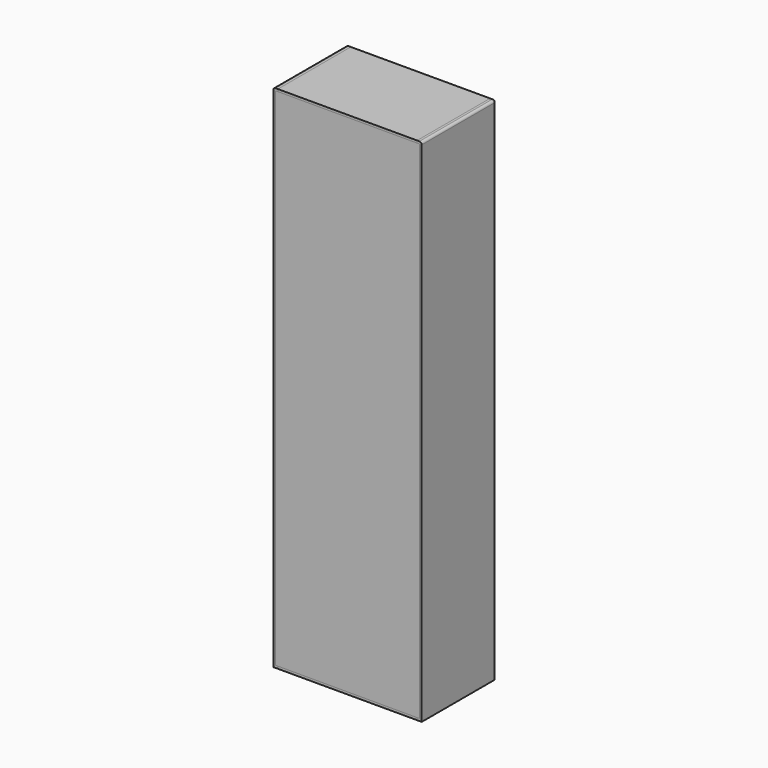
from build123d import *

# Parameters (mm, degrees)
F1_DEPTH = 254
F2_DEPTH = 254
F0_W     = 368.3
F0_H     = 4.445
F0_W_2   = 6.35
F3_DEPTH = 254
F4_W     = 381
F4_H     = 12.7
F5_DEPTH = 4.445
F7_R     = 6.35
F7_2_R   = 6.35
F7_3_R   = 6.35
F7_4_R   = 6.35


with BuildPart() as f1:
    # F0 (on Front) → F1 (new body)
    with BuildSketch(Plane.XZ):
        Polygon((831.85, 622.3), (831.85, 679.45), (825.5, 679.45), (825.5, 698.5), (812.8, 698.5), (812.8, -698.5), (825.5, -698.5), (825.5, -679.45), (831.85, -679.45), (831.85, -614.045), (825.5, -614.045), (825.5, -609.6), (831.85, -609.6), (831.85, -552.45), (825.5, -552.45), (825.5, -548.005), (831.85, -548.005), (831.85, -490.855), (825.5, -490.855), (825.5, -486.41), (831.85, -486.41), (831.85, -429.26), (825.5, -429.26), (825.5, -424.815), (831.85, -424.815), (831.85, -367.665), (825.5, -367.665), (825.5, -363.22), (831.85, -363.22), (831.85, -306.07), (825.5, -306.07), (825.5, -301.625), (831.85, -301.625), (831.85, -244.475), (825.5, -244.475), (825.5, -240.03), (831.85, -240.03), (831.85, -182.88), (825.5, -182.88), (825.5, -178.435), (831.85, -178.435), (831.85, -121.285), (825.5, -121.285), (825.5, -116.84), (831.85, -116.84), (831.85, -59.69), (825.5, -59.69), (825.5, -55.245), (831.85, -55.245), (831.85, 1.905), (825.5, 1.905), (825.5, 6.35), (831.85, 6.35), (831.85, 63.5), (825.5, 63.5), (825.5, 67.945), (831.85, 67.945), (831.85, 125.095), (825.5, 125.095), (825.5, 129.54), (831.85, 129.54), (831.85, 186.69), (825.5, 186.69), (825.5, 191.135), (831.85, 191.135), (831.85, 248.285), (825.5, 248.285), (825.5, 252.73), (831.85, 252.73), (831.85, 309.88), (825.5, 309.88), (825.5, 314.325), (831.85, 314.325), (831.85, 371.475), (825.5, 371.475), (825.5, 375.92), (831.85, 375.92), (831.85, 433.07), (825.5, 433.07), (825.5, 437.515), (831.85, 437.515), (831.85, 494.665), (825.5, 494.665), (825.5, 499.11), (831.85, 499.11), (831.85, 556.26), (825.5, 556.26), (825.5, 560.705), (831.85, 560.705), (831.85, 617.855), (825.5, 617.855), (825.5, 622.3), align=None)
    extrude(amount=F1_DEPTH)


with BuildPart() as f1b:
    # F0 (on Front) → F1, piece 2 (new body)
    with BuildSketch(Plane.XZ):
        Polygon((1206.5, 679.45), (1200.15, 679.45), (1200.15, 622.3), (1206.5, 622.3), (1206.5, 617.855), (1200.15, 617.855), (1200.15, 560.705), (1206.5, 560.705), (1206.5, 556.26), (1200.15, 556.26), (1200.15, 499.11), (1206.5, 499.11), (1206.5, 494.665), (1200.15, 494.665), (1200.15, 437.515), (1206.5, 437.515), (1206.5, 433.07), (1200.15, 433.07), (1200.15, 375.92), (1206.5, 375.92), (1206.5, 371.475), (1200.15, 371.475), (1200.15, 314.325), (1206.5, 314.325), (1206.5, 309.88), (1200.15, 309.88), (1200.15, 252.73), (1206.5, 252.73), (1206.5, 248.285), (1200.15, 248.285), (1200.15, 191.135), (1206.5, 191.135), (1206.5, 186.69), (1200.15, 186.69), (1200.15, 129.54), (1206.5, 129.54), (1206.5, 125.095), (1200.15, 125.095), (1200.15, 67.945), (1206.5, 67.945), (1206.5, 63.5), (1200.15, 63.5), (1200.15, 6.35), (1206.5, 6.35), (1206.5, 1.905), (1200.15, 1.905), (1200.15, -55.245), (1206.5, -55.245), (1206.5, -59.69), (1200.15, -59.69), (1200.15, -116.84), (1206.5, -116.84), (1206.5, -121.285), (1200.15, -121.285), (1200.15, -178.435), (1206.5, -178.435), (1206.5, -182.88), (1200.15, -182.88), (1200.15, -240.03), (1206.5, -240.03), (1206.5, -244.475), (1200.15, -244.475), (1200.15, -301.625), (1206.5, -301.625), (1206.5, -306.07), (1200.15, -306.07), (1200.15, -363.22), (1206.5, -363.22), (1206.5, -367.665), (1200.15, -367.665), (1200.15, -424.815), (1206.5, -424.815), (1206.5, -429.26), (1200.15, -429.26), (1200.15, -486.41), (1206.5, -486.41), (1206.5, -490.855), (1200.15, -490.855), (1200.15, -548.005), (1206.5, -548.005), (1206.5, -552.45), (1200.15, -552.45), (1200.15, -609.6), (1206.5, -609.6), (1206.5, -614.045), (1200.15, -614.045), (1200.15, -679.45), (1206.5, -679.45), (1206.5, -698.5), (1219.2, -698.5), (1219.2, 12.7), (1219.2, 698.5), (1206.5, 698.5), align=None)
    extrude(amount=F1_DEPTH)


with BuildPart() as f2:
    # F0 (on Front) → F2 (new body)
    with BuildSketch(Plane.XZ):
        Polygon((825.5, -679.45), (825.5, -698.5), (1206.5, -698.5), (1206.5, -679.45), (1200.15, -679.45), (831.85, -679.45), align=None)
    extrude(amount=F2_DEPTH)


with BuildPart() as f2b:
    # F0 (on Front) → F2, piece 2 (new body)
    with BuildSketch(Plane.XZ):
        Polygon((825.5, 679.45), (831.85, 679.45), (1200.15, 679.45), (1206.5, 679.45), (1206.5, 698.5), (825.5, 698.5), align=None)
    extrude(amount=F2_DEPTH)


with BuildPart() as f3:
    # F0 (on Front) → F3 (new body)
    with BuildSketch(Plane.XZ):
        with Locations((1016, 620.0775)):
            Rectangle(F0_W, F0_H)
        with Locations((1203.325, 620.0775)):
            Rectangle(F0_W_2, F0_H)
        with Locations((828.675, 620.0775)):
            Rectangle(F0_W_2, F0_H)
    extrude(amount=F3_DEPTH)


with BuildPart() as f3b:
    # F0 (on Front) → F3, piece 2 (new body)
    with BuildSketch(Plane.XZ):
        with Locations((1016, 558.4825)):
            Rectangle(F0_W, F0_H)
        with Locations((828.675, 558.4825)):
            Rectangle(F0_W_2, F0_H)
        with Locations((1203.325, 558.4825)):
            Rectangle(F0_W_2, F0_H)
    extrude(amount=F3_DEPTH)


with BuildPart() as f3c:
    # F0 (on Front) → F3, piece 3 (new body)
    with BuildSketch(Plane.XZ):
        with Locations((1016, 496.8875)):
            Rectangle(F0_W, F0_H)
        with Locations((1203.325, 496.8875)):
            Rectangle(F0_W_2, F0_H)
        with Locations((828.675, 496.8875)):
            Rectangle(F0_W_2, F0_H)
    extrude(amount=F3_DEPTH)


with BuildPart() as f3d:
    # F0 (on Front) → F3, piece 4 (new body)
    with BuildSketch(Plane.XZ):
        with Locations((1016, 435.2925)):
            Rectangle(F0_W, F0_H)
        with Locations((828.675, 435.2925)):
            Rectangle(F0_W_2, F0_H)
        with Locations((1203.325, 435.2925)):
            Rectangle(F0_W_2, F0_H)
    extrude(amount=F3_DEPTH)


with BuildPart() as f3e:
    # F0 (on Front) → F3, piece 5 (new body)
    with BuildSketch(Plane.XZ):
        with Locations((1016, 373.6975)):
            Rectangle(F0_W, F0_H)
        with Locations((1203.325, 373.6975)):
            Rectangle(F0_W_2, F0_H)
        with Locations((828.675, 373.6975)):
            Rectangle(F0_W_2, F0_H)
    extrude(amount=F3_DEPTH)


with BuildPart() as f3f:
    # F0 (on Front) → F3, piece 6 (new body)
    with BuildSketch(Plane.XZ):
        with Locations((1016, 312.1025)):
            Rectangle(F0_W, F0_H)
        with Locations((1203.325, 312.1025)):
            Rectangle(F0_W_2, F0_H)
        with Locations((828.675, 312.1025)):
            Rectangle(F0_W_2, F0_H)
    extrude(amount=F3_DEPTH)


with BuildPart() as f3g:
    # F0 (on Front) → F3, piece 7 (new body)
    with BuildSketch(Plane.XZ):
        with Locations((828.675, 250.5075)):
            Rectangle(F0_W_2, F0_H)
        with Locations((1016, 250.5075)):
            Rectangle(F0_W, F0_H)
        with Locations((1203.325, 250.5075)):
            Rectangle(F0_W_2, F0_H)
    extrude(amount=F3_DEPTH)


with BuildPart() as f3h:
    # F0 (on Front) → F3, piece 8 (new body)
    with BuildSketch(Plane.XZ):
        with Locations((1203.325, 188.9125)):
            Rectangle(F0_W_2, F0_H)
        with Locations((1016, 188.9125)):
            Rectangle(F0_W, F0_H)
        with Locations((828.675, 188.9125)):
            Rectangle(F0_W_2, F0_H)
    extrude(amount=F3_DEPTH)


with BuildPart() as f3i:
    # F0 (on Front) → F3, piece 9 (new body)
    with BuildSketch(Plane.XZ):
        with Locations((1203.325, 127.3175)):
            Rectangle(F0_W_2, F0_H)
        with Locations((1016, 127.3175)):
            Rectangle(F0_W, F0_H)
        with Locations((828.675, 127.3175)):
            Rectangle(F0_W_2, F0_H)
    extrude(amount=F3_DEPTH)


with BuildPart() as f3j:
    # F0 (on Front) → F3, piece 10 (new body)
    with BuildSketch(Plane.XZ):
        with Locations((828.675, 65.7225)):
            Rectangle(F0_W_2, F0_H)
        with Locations((1016, 65.7225)):
            Rectangle(F0_W, F0_H)
        with Locations((1203.325, 65.7225)):
            Rectangle(F0_W_2, F0_H)
    extrude(amount=F3_DEPTH)


with BuildPart() as f3k:
    # F0 (on Front) → F3, piece 11 (new body)
    with BuildSketch(Plane.XZ):
        with Locations((1203.325, 4.1275)):
            Rectangle(F0_W_2, F0_H)
        with Locations((1016, 4.1275)):
            Rectangle(F0_W, F0_H)
        with Locations((828.675, 4.1275)):
            Rectangle(F0_W_2, F0_H)
    extrude(amount=F3_DEPTH)


with BuildPart() as f3l:
    # F0 (on Front) → F3, piece 12 (new body)
    with BuildSketch(Plane.XZ):
        with Locations((1203.325, -57.4675)):
            Rectangle(F0_W_2, F0_H)
        with Locations((1016, -57.4675)):
            Rectangle(F0_W, F0_H)
        with Locations((828.675, -57.4675)):
            Rectangle(F0_W_2, F0_H)
    extrude(amount=F3_DEPTH)


with BuildPart() as f3m:
    # F0 (on Front) → F3, piece 13 (new body)
    with BuildSketch(Plane.XZ):
        with Locations((828.675, -119.0625)):
            Rectangle(F0_W_2, F0_H)
        with Locations((1016, -119.0625)):
            Rectangle(F0_W, F0_H)
        with Locations((1203.325, -119.0625)):
            Rectangle(F0_W_2, F0_H)
    extrude(amount=F3_DEPTH)


with BuildPart() as f3n:
    # F0 (on Front) → F3, piece 14 (new body)
    with BuildSketch(Plane.XZ):
        with Locations((1203.325, -180.6575)):
            Rectangle(F0_W_2, F0_H)
        with Locations((1016, -180.6575)):
            Rectangle(F0_W, F0_H)
        with Locations((828.675, -180.6575)):
            Rectangle(F0_W_2, F0_H)
    extrude(amount=F3_DEPTH)


with BuildPart() as f3o:
    # F0 (on Front) → F3, piece 15 (new body)
    with BuildSketch(Plane.XZ):
        with Locations((828.675, -242.2525)):
            Rectangle(F0_W_2, F0_H)
        with Locations((1016, -242.2525)):
            Rectangle(F0_W, F0_H)
        with Locations((1203.325, -242.2525)):
            Rectangle(F0_W_2, F0_H)
    extrude(amount=F3_DEPTH)


with BuildPart() as f3p:
    # F0 (on Front) → F3, piece 16 (new body)
    with BuildSketch(Plane.XZ):
        with Locations((1203.325, -303.8475)):
            Rectangle(F0_W_2, F0_H)
        with Locations((1016, -303.8475)):
            Rectangle(F0_W, F0_H)
        with Locations((828.675, -303.8475)):
            Rectangle(F0_W_2, F0_H)
    extrude(amount=F3_DEPTH)


with BuildPart() as f3q:
    # F0 (on Front) → F3, piece 17 (new body)
    with BuildSketch(Plane.XZ):
        with Locations((1016, -365.4425)):
            Rectangle(F0_W, F0_H)
        with Locations((1203.325, -365.4425)):
            Rectangle(F0_W_2, F0_H)
        with Locations((828.675, -365.4425)):
            Rectangle(F0_W_2, F0_H)
    extrude(amount=F3_DEPTH)


with BuildPart() as f3r:
    # F0 (on Front) → F3, piece 18 (new body)
    with BuildSketch(Plane.XZ):
        with Locations((1203.325, -427.0375)):
            Rectangle(F0_W_2, F0_H)
        with Locations((1016, -427.0375)):
            Rectangle(F0_W, F0_H)
        with Locations((828.675, -427.0375)):
            Rectangle(F0_W_2, F0_H)
    extrude(amount=F3_DEPTH)


with BuildPart() as f3s:
    # F0 (on Front) → F3, piece 19 (new body)
    with BuildSketch(Plane.XZ):
        with Locations((1203.325, -488.6325)):
            Rectangle(F0_W_2, F0_H)
        with Locations((1016, -488.6325)):
            Rectangle(F0_W, F0_H)
        with Locations((828.675, -488.6325)):
            Rectangle(F0_W_2, F0_H)
    extrude(amount=F3_DEPTH)


with BuildPart() as f3t:
    # F0 (on Front) → F3, piece 20 (new body)
    with BuildSketch(Plane.XZ):
        with Locations((1203.325, -550.2275)):
            Rectangle(F0_W_2, F0_H)
        with Locations((1016, -550.2275)):
            Rectangle(F0_W, F0_H)
        with Locations((828.675, -550.2275)):
            Rectangle(F0_W_2, F0_H)
    extrude(amount=F3_DEPTH)


with BuildPart() as f3u:
    # F0 (on Front) → F3, piece 21 (new body)
    with BuildSketch(Plane.XZ):
        with Locations((1016, -611.8225)):
            Rectangle(F0_W, F0_H)
        with Locations((828.675, -611.8225)):
            Rectangle(F0_W_2, F0_H)
        with Locations((1203.325, -611.8225)):
            Rectangle(F0_W_2, F0_H)
    extrude(amount=F3_DEPTH)


with BuildPart() as f5:
    # F4 (on face) → F5 (new body)
    with BuildSketch(Plane.XZ.offset(254)):
        Polygon((825.5, 679.45), (825.5, 692.15), (819.15, 692.15), (819.15, -692.15), (1212.85, -692.15), (1212.85, 692.15), (1206.5, 692.15), (1206.5, 679.45), align=None)
        with Locations((1016, 685.8)):
            Rectangle(F4_W, F4_H)
    extrude(amount=-F5_DEPTH)


with BuildPart() as f1_1:
    add(f1.part)

    # F6: cut F5
    add(f5.part, mode=Mode.SUBTRACT)

    # F7#3
    f7_3_edges = [f1_1.edges().sort_by_distance(p)[0] for p in [
        (812.8, -127, 698.5),
        (819.15, 0, 698.5),
        (812.8, 0, 0),
        (831.85, 0, 650.875),
        (831.85, 0, 589.28),
        (831.85, 0, 527.685),
        (831.85, 0, -646.7475),
        (831.85, 0, -581.025),
        (831.85, 0, -519.43),
        (831.85, 0, -457.835),
        (831.85, 0, -396.24),
        (831.85, 0, -334.645),
        (831.85, 0, -273.05),
        (831.85, 0, -211.455),
        (831.85, 0, -149.86),
        (831.85, 0, -88.265),
        (831.85, 0, -26.67),
        (831.85, 0, 34.925),
        (831.85, 0, 96.52),
        (831.85, 0, 158.115),
        (831.85, 0, 219.71),
        (831.85, 0, 281.305),
        (831.85, 0, 342.9),
        (831.85, 0, 404.495),
        (831.85, 0, 466.09),
    ]]
    fillet(f7_3_edges, radius=F7_3_R)


with BuildPart() as f1b_1:
    add(f1b.part)

    # F6: cut F5
    add(f5.part, mode=Mode.SUBTRACT)

    # F7#2
    f7_2_edges = [f1b_1.edges().sort_by_distance(p)[0] for p in [
        (1219.2, -127, 698.5),
        (1212.85, 0, 698.5),
        (1219.2, 0, 0),
        (1200.15, 0, 650.875),
        (1200.15, 0, 589.28),
        (1200.15, 0, 527.685),
        (1200.15, 0, 466.09),
        (1200.15, 0, 404.495),
        (1200.15, 0, 342.9),
        (1200.15, 0, 281.305),
        (1200.15, 0, 219.71),
        (1200.15, 0, 158.115),
        (1200.15, 0, 96.52),
        (1200.15, 0, 34.925),
        (1200.15, 0, -26.67),
        (1200.15, 0, -88.265),
        (1200.15, 0, -149.86),
        (1200.15, 0, -211.455),
        (1200.15, 0, -273.05),
        (1200.15, 0, -334.645),
        (1200.15, 0, -457.835),
        (1200.15, 0, -396.24),
        (1200.15, 0, -519.43),
        (1200.15, 0, -581.025),
        (1200.15, 0, -646.7475),
    ]]
    fillet(f7_2_edges, radius=F7_2_R)


with BuildPart() as f2b_1:
    add(f2b.part)

    # F6: cut F5
    add(f5.part, mode=Mode.SUBTRACT)

    # F7
    f7_edges = [f2b_1.edges().sort_by_distance(p)[0] for p in [
        (1016, 0, 698.5),
        (1016, 0, 679.45),
    ]]
    fillet(f7_edges, radius=F7_R)


with BuildPart() as f2_1:
    add(f2.part)

    # F6: cut F5
    add(f5.part, mode=Mode.SUBTRACT)

    # F7#4
    f7_4_edges = [f2_1.edges().sort_by_distance(p)[0] for p in [
        (1016, 0, -679.45),
    ]]
    fillet(f7_4_edges, radius=F7_4_R)


with BuildPart() as f3u_1:
    add(f3u.part)

    # F6: cut F5
    add(f5.part, mode=Mode.SUBTRACT)


with BuildPart() as f3_1:
    add(f3.part)

    # F6: cut F5
    add(f5.part, mode=Mode.SUBTRACT)


with BuildPart() as f3b_1:
    add(f3b.part)

    # F6: cut F5
    add(f5.part, mode=Mode.SUBTRACT)


with BuildPart() as f3c_1:
    add(f3c.part)

    # F6: cut F5
    add(f5.part, mode=Mode.SUBTRACT)


with BuildPart() as f3d_1:
    add(f3d.part)

    # F6: cut F5
    add(f5.part, mode=Mode.SUBTRACT)


with BuildPart() as f3e_1:
    add(f3e.part)

    # F6: cut F5
    add(f5.part, mode=Mode.SUBTRACT)


with BuildPart() as f3f_1:
    add(f3f.part)

    # F6: cut F5
    add(f5.part, mode=Mode.SUBTRACT)


with BuildPart() as f3g_1:
    add(f3g.part)

    # F6: cut F5
    add(f5.part, mode=Mode.SUBTRACT)


with BuildPart() as f3h_1:
    add(f3h.part)

    # F6: cut F5
    add(f5.part, mode=Mode.SUBTRACT)


with BuildPart() as f3i_1:
    add(f3i.part)

    # F6: cut F5
    add(f5.part, mode=Mode.SUBTRACT)


with BuildPart() as f3j_1:
    add(f3j.part)

    # F6: cut F5
    add(f5.part, mode=Mode.SUBTRACT)


with BuildPart() as f3k_1:
    add(f3k.part)

    # F6: cut F5
    add(f5.part, mode=Mode.SUBTRACT)


with BuildPart() as f3l_1:
    add(f3l.part)

    # F6: cut F5
    add(f5.part, mode=Mode.SUBTRACT)


with BuildPart() as f3m_1:
    add(f3m.part)

    # F6: cut F5
    add(f5.part, mode=Mode.SUBTRACT)


with BuildPart() as f3n_1:
    add(f3n.part)

    # F6: cut F5
    add(f5.part, mode=Mode.SUBTRACT)


with BuildPart() as f3o_1:
    add(f3o.part)

    # F6: cut F5
    add(f5.part, mode=Mode.SUBTRACT)


with BuildPart() as f3p_1:
    add(f3p.part)

    # F6: cut F5
    add(f5.part, mode=Mode.SUBTRACT)


with BuildPart() as f3q_1:
    add(f3q.part)

    # F6: cut F5
    add(f5.part, mode=Mode.SUBTRACT)


with BuildPart() as f3r_1:
    add(f3r.part)

    # F6: cut F5
    add(f5.part, mode=Mode.SUBTRACT)


with BuildPart() as f3s_1:
    add(f3s.part)

    # F6: cut F5
    add(f5.part, mode=Mode.SUBTRACT)


with BuildPart() as f3t_1:
    add(f3t.part)

    # F6: cut F5
    add(f5.part, mode=Mode.SUBTRACT)


solid = Compound([f5.part, f1_1.part, f1b_1.part, f2b_1.part, f2_1.part, f3u_1.part, f3_1.part, f3b_1.part, f3c_1.part, f3d_1.part, f3e_1.part, f3f_1.part, f3g_1.part, f3h_1.part, f3i_1.part, f3j_1.part, f3k_1.part, f3l_1.part, f3m_1.part, f3n_1.part, f3o_1.part, f3p_1.part, f3q_1.part, f3r_1.part, f3s_1.part, f3t_1.part])
